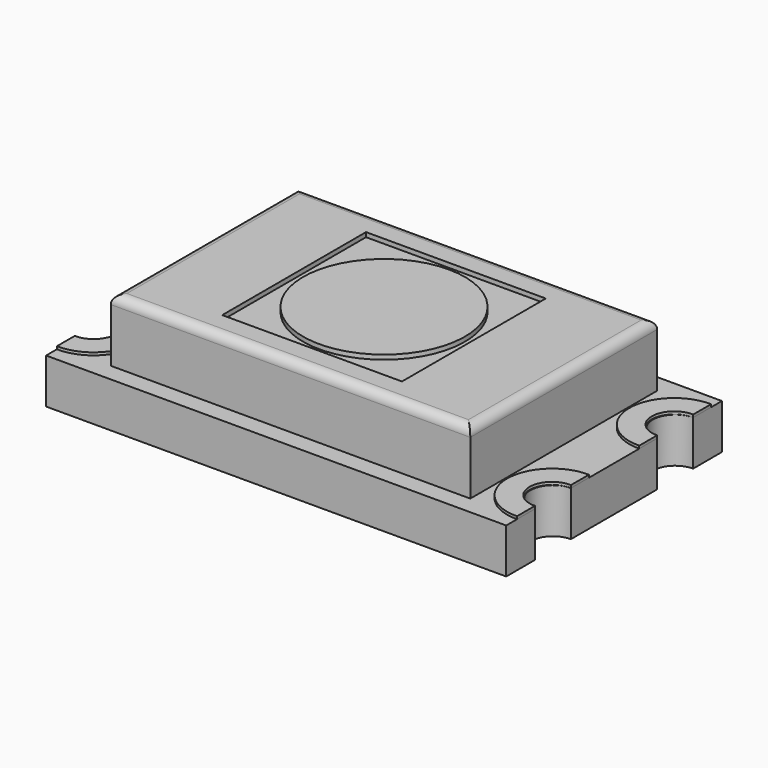
from build123d import *

# Parameters (mm, degrees)
BOX012_W               = 1
BOX012_H               = 1.5
BOX012_DEPTH           = 0.3
CYLINDER007_R          = 0.25
CYLINDER007_DEPTH      = 0.05
CYLINDER004_R          = 0.5
CYLINDER004_DEPTH      = 0.05
BOX011_W               = 1
BOX011_H               = 2.5
BOX011_DEPTH           = 0.3
CYLINDER008_R          = 0.25
CYLINDER008_DEPTH      = 0.05
CYLINDER003_R          = 0.5
CYLINDER003_DEPTH      = 0.05
BOX009_W               = 1
BOX009_H               = 1.5
BOX009_DEPTH           = 0.3
CYLINDER009_R          = 0.25
CYLINDER009_DEPTH      = 0.05
CYLINDER006_R          = 0.5
CYLINDER006_DEPTH      = 0.05
BOX010_W               = 1
BOX010_H               = 1.5
BOX010_DEPTH           = 0.3
CYLINDER010_R          = 0.25
CYLINDER010_DEPTH      = 0.05
CYLINDER005_R          = 0.5
CYLINDER005_DEPTH      = 0.05
BOX005_W               = 2
BOX005_H               = 3
BOX005_DEPTH           = 0.2
BOX005_PLACEMENT_ANGLE = 120
BOX004_W               = 2
BOX004_H               = 3
BOX004_DEPTH           = 0.2
CYLINDER001_R          = 0.9
CYLINDER001_DEPTH      = 0.1
CUT004_PLACEMENT_ANGLE = 120
BOX007_W               = 2
BOX007_H               = 3
BOX007_DEPTH           = 0.2
BOX007_PLACEMENT_ANGLE = 120
BOX006_W               = 2
BOX006_H               = 3
BOX006_DEPTH           = 0.2
CYLINDER002_R          = 0.9
CYLINDER002_DEPTH      = 0.1
CUT006_PLACEMENT_ANGLE = 240
BOX003_W               = 2
BOX003_H               = 3
BOX003_DEPTH           = 0.2
BOX003_PLACEMENT_ANGLE = 120
BOX002_W               = 2
BOX002_H               = 3
BOX002_DEPTH           = 0.2
CYLINDER_R             = 0.9
CYLINDER_DEPTH         = 0.1
BOX008_W               = 2
BOX008_H               = 2
BOX008_DEPTH           = 0.2
PAD_DEPTH              = 0.5
BOX001_W               = 2
BOX001_H               = 2
BOX001_DEPTH           = 0.1
BOX_W                  = 4
BOX_H                  = 2.6
BOX_DEPTH              = 0.7
FILLET_R               = 0.1


with BuildPart() as kub012:
    # Box012 → Box012 (new body)
    with BuildSketch(Plane(origin=(-3.56, 0, 0.4), x_dir=(1, 0, 0), z_dir=(0, 0, 1))):
        with Locations((0.5, 0.75)):
            Rectangle(BOX012_W, BOX012_H)
    extrude(amount=BOX012_DEPTH)


with BuildPart() as cylinder007:
    # Cylinder007 → Cylinder007 (new body)
    with BuildSketch(Plane(origin=(-2.55, 0.85, 0.48), x_dir=(1, 0, 0), z_dir=(0, 0, 1))):
        Circle(CYLINDER007_R)
    extrude(amount=CYLINDER007_DEPTH)


with BuildPart() as cut011:
    # Cylinder004 → Cylinder004 (new body)
    with BuildSketch(Plane(origin=(-2.55, 0.85, 0.48), x_dir=(1, 0, 0), z_dir=(0, 0, 1))):
        Circle(CYLINDER004_R)
    extrude(amount=CYLINDER004_DEPTH)

    # Cut007: cut Cylinder007
    add(cylinder007.part, mode=Mode.SUBTRACT)

    # Cut011: cut Kub012
    add(kub012.part, mode=Mode.SUBTRACT)


with BuildPart() as kub011:
    # Box011 → Box011 (new body)
    with BuildSketch(Plane(origin=(-3.56, -1.5, 0.4), x_dir=(1, 0, 0), z_dir=(0, 0, 1))):
        with Locations((0.5, 1.25)):
            Rectangle(BOX011_W, BOX011_H)
    extrude(amount=BOX011_DEPTH)


with BuildPart() as cylinder008:
    # Cylinder008 → Cylinder008 (new body)
    with BuildSketch(Plane(origin=(-2.55, -0.85, 0.48), x_dir=(1, 0, 0), z_dir=(0, 0, 1))):
        Circle(CYLINDER008_R)
    extrude(amount=CYLINDER008_DEPTH)


with BuildPart() as cut012:
    # Cylinder003 → Cylinder003 (new body)
    with BuildSketch(Plane(origin=(-2.55, -0.85, 0.48), x_dir=(1, 0, 0), z_dir=(0, 0, 1))):
        Circle(CYLINDER003_R)
    extrude(amount=CYLINDER003_DEPTH)

    # Cut008: cut Cylinder008
    add(cylinder008.part, mode=Mode.SUBTRACT)

    # Cut012: cut Kub011
    add(kub011.part, mode=Mode.SUBTRACT)


with BuildPart() as kub009:
    # Box009 → Box009 (new body)
    with BuildSketch(Plane(origin=(2.56, -1.5, 0.4), x_dir=(1, 0, 0), z_dir=(0, 0, 1))):
        with Locations((0.5, 0.75)):
            Rectangle(BOX009_W, BOX009_H)
    extrude(amount=BOX009_DEPTH)


with BuildPart() as cylinder009:
    # Cylinder009 → Cylinder009 (new body)
    with BuildSketch(Plane(origin=(2.55, -0.85, 0.48), x_dir=(1, 0, 0), z_dir=(0, 0, 1))):
        Circle(CYLINDER009_R)
    extrude(amount=CYLINDER009_DEPTH)


with BuildPart() as cut013:
    # Cylinder006 → Cylinder006 (new body)
    with BuildSketch(Plane(origin=(2.55, -0.85, 0.48), x_dir=(1, 0, 0), z_dir=(0, 0, 1))):
        Circle(CYLINDER006_R)
    extrude(amount=CYLINDER006_DEPTH)

    # Cut009: cut Cylinder009
    add(cylinder009.part, mode=Mode.SUBTRACT)

    # Cut013: cut Kub009
    add(kub009.part, mode=Mode.SUBTRACT)


with BuildPart() as kub010:
    # Box010 → Box010 (new body)
    with BuildSketch(Plane(origin=(2.56, 0, 0.4), x_dir=(1, 0, 0), z_dir=(0, 0, 1))):
        with Locations((0.5, 0.75)):
            Rectangle(BOX010_W, BOX010_H)
    extrude(amount=BOX010_DEPTH)


with BuildPart() as cylinder010:
    # Cylinder010 → Cylinder010 (new body)
    with BuildSketch(Plane(origin=(2.55, 0.85, 0.48), x_dir=(1, 0, 0), z_dir=(0, 0, 1))):
        Circle(CYLINDER010_R)
    extrude(amount=CYLINDER010_DEPTH)


with BuildPart() as cut014:
    # Cylinder005 → Cylinder005 (new body)
    with BuildSketch(Plane(origin=(2.55, 0.85, 0.48), x_dir=(1, 0, 0), z_dir=(0, 0, 1))):
        Circle(CYLINDER005_R)
    extrude(amount=CYLINDER005_DEPTH)

    # Cut010: cut Cylinder010
    add(cylinder010.part, mode=Mode.SUBTRACT)

    # Cut014: cut Kub010
    add(kub010.part, mode=Mode.SUBTRACT)


with BuildPart() as kub005:
    # Box005 → Box005 (new body)
    with BuildSketch(Plane.XY):
        with Locations((1, 1.5)):
            Rectangle(BOX005_W, BOX005_H)
    extrude(amount=BOX005_DEPTH)


with BuildPart() as kub005_1:
    # Box005 placement: moved
    add(kub005.part.moved(Location((0, 0, 1.2))).rotate(Axis((0, 0, 1.2), (0, 0, -1)), BOX005_PLACEMENT_ANGLE))


with BuildPart() as kub004:
    # Box004 → Box004 (new body)
    with BuildSketch(Plane(origin=(-2, -1, 1.2), x_dir=(1, 0, 0), z_dir=(0, 0, 1))):
        with Locations((1, 1.5)):
            Rectangle(BOX004_W, BOX004_H)
    extrude(amount=BOX004_DEPTH)


with BuildPart() as cut004:
    # Cylinder001 → Cylinder001 (new body)
    with BuildSketch(Plane.XY.offset(1.2)):
        Circle(CYLINDER001_R)
    extrude(amount=CYLINDER001_DEPTH)

    # Cut003: cut Kub004
    add(kub004.part, mode=Mode.SUBTRACT)

    # Cut004: cut Kub005
    add(kub005_1.part, mode=Mode.SUBTRACT)


with BuildPart() as cut004_1:
    # Cut004 placement: moved
    add(cut004.part.rotate(Axis((0, 0, 0), (0, 0, 1)), CUT004_PLACEMENT_ANGLE))


with BuildPart() as kub007:
    # Box007 → Box007 (new body)
    with BuildSketch(Plane.XY):
        with Locations((1, 1.5)):
            Rectangle(BOX007_W, BOX007_H)
    extrude(amount=BOX007_DEPTH)


with BuildPart() as kub007_1:
    # Box007 placement: moved
    add(kub007.part.moved(Location((0, 0, 1.2))).rotate(Axis((0, 0, 1.2), (0, 0, -1)), BOX007_PLACEMENT_ANGLE))


with BuildPart() as kub006:
    # Box006 → Box006 (new body)
    with BuildSketch(Plane(origin=(-2, -1, 1.2), x_dir=(1, 0, 0), z_dir=(0, 0, 1))):
        with Locations((1, 1.5)):
            Rectangle(BOX006_W, BOX006_H)
    extrude(amount=BOX006_DEPTH)


with BuildPart() as cut006:
    # Cylinder002 → Cylinder002 (new body)
    with BuildSketch(Plane.XY.offset(1.2)):
        Circle(CYLINDER002_R)
    extrude(amount=CYLINDER002_DEPTH)

    # Cut005: cut Kub006
    add(kub006.part, mode=Mode.SUBTRACT)

    # Cut006: cut Kub007
    add(kub007_1.part, mode=Mode.SUBTRACT)


with BuildPart() as cut006_1:
    # Cut006 placement: moved
    add(cut006.part.rotate(Axis((0, 0, 0), (0, 0, 1)), CUT006_PLACEMENT_ANGLE))


with BuildPart() as kub003:
    # Box003 → Box003 (new body)
    with BuildSketch(Plane.XY):
        with Locations((1, 1.5)):
            Rectangle(BOX003_W, BOX003_H)
    extrude(amount=BOX003_DEPTH)


with BuildPart() as kub003_1:
    # Box003 placement: moved
    add(kub003.part.moved(Location((0, 0, 1.2))).rotate(Axis((0, 0, 1.2), (0, 0, -1)), BOX003_PLACEMENT_ANGLE))


with BuildPart() as kub002:
    # Box002 → Box002 (new body)
    with BuildSketch(Plane(origin=(-2, -1, 1.2), x_dir=(1, 0, 0), z_dir=(0, 0, 1))):
        with Locations((1, 1.5)):
            Rectangle(BOX002_W, BOX002_H)
    extrude(amount=BOX002_DEPTH)


with BuildPart() as colour:
    # Cylinder → Cylinder (new body)
    with BuildSketch(Plane.XY.offset(1.2)):
        Circle(CYLINDER_R)
    extrude(amount=CYLINDER_DEPTH)

    # Cut001: cut Kub002
    add(kub002.part, mode=Mode.SUBTRACT)

    # Cut002: cut Kub003
    add(kub003_1.part, mode=Mode.SUBTRACT)

    # Fusion: union Cut004, Cut006
    add(cut004_1.part)
    add(cut006_1.part)


with BuildPart() as colour_1:
    # Fusion placement: moved
    add(colour.part.moved(Location((0, 0, -0.1))))


with BuildPart() as kub008:
    # Box008 → Box008 (new body)
    with BuildSketch(Plane(origin=(-1, -1, 0.95), x_dir=(1, 0, 0), z_dir=(0, 0, 1))):
        with Locations((1, 1)):
            Rectangle(BOX008_W, BOX008_H)
    extrude(amount=BOX008_DEPTH)


with BuildPart() as body:
    # Sketch → Pad (new body)
    with BuildSketch(Plane.XY):
        with BuildLine():
            Line((-2.56, 1.1), (-2.56, 1.5))
            Line((-2.56, 1.5), (2.56, 1.5))
            Line((2.56, 1.5), (2.56, 1.1))
            ThreePointArc((2.56, 1.1), (2.31, 0.85), (2.56, 0.6))
            Line((2.56, 0.4), (2.56, 0.6))
            Line((2.56, 0.4), (2.56, -0.4))
            Line((2.56, -0.4), (2.56, -0.6))
            ThreePointArc((2.56, -0.6), (2.31, -0.85), (2.56, -1.1))
            Line((2.56, -1.5), (2.56, -1.1))
            Line((-2.56, -1.5), (2.56, -1.5))
            Line((-2.56, -1.1), (-2.56, -1.5))
            ThreePointArc((-2.56, -1.1), (-2.31, -0.85), (-2.56, -0.6))
            Line((-2.56, -0.4), (-2.56, -0.6))
            Line((-2.56, 0.4), (-2.56, -0.4))
            Line((-2.56, 0.4), (-2.56, 0.6))
            ThreePointArc((-2.56, 0.6), (-2.31, 0.85), (-2.56, 1.1))
        make_face()
    extrude(amount=PAD_DEPTH)


with BuildPart() as kub001:
    # Box001 → Box001 (new body)
    with BuildSketch(Plane(origin=(-1, -1, 1.1), x_dir=(1, 0, 0), z_dir=(0, 0, 1))):
        with Locations((1, 1)):
            Rectangle(BOX001_W, BOX001_H)
    extrude(amount=BOX001_DEPTH)


with BuildPart() as fusion001:
    # Box → Box (new body)
    with BuildSketch(Plane(origin=(-2, -1.3, 0.5), x_dir=(1, 0, 0), z_dir=(0, 0, 1))):
        with Locations((2, 1.3)):
            Rectangle(BOX_W, BOX_H)
    extrude(amount=BOX_DEPTH)

    # Cut: cut Kub001
    add(kub001.part, mode=Mode.SUBTRACT)

    # Fillet
    fillet_edges = [fusion001.edges().sort_by_distance(p)[0] for p in [
        (-2, 0, 1.2),
        (0, -1.3, 1.2),
        (0, 1.3, 1.2),
        (2, 0, 1.2),
    ]]
    fillet(fillet_edges, radius=FILLET_R)

    # Fusion001: union Colour, Kub008, Body
    add(colour_1.part)
    add(kub008.part)
    add(body.part)


solid = Compound([cut011.part, cut012.part, cut013.part, cut014.part, fusion001.part])
